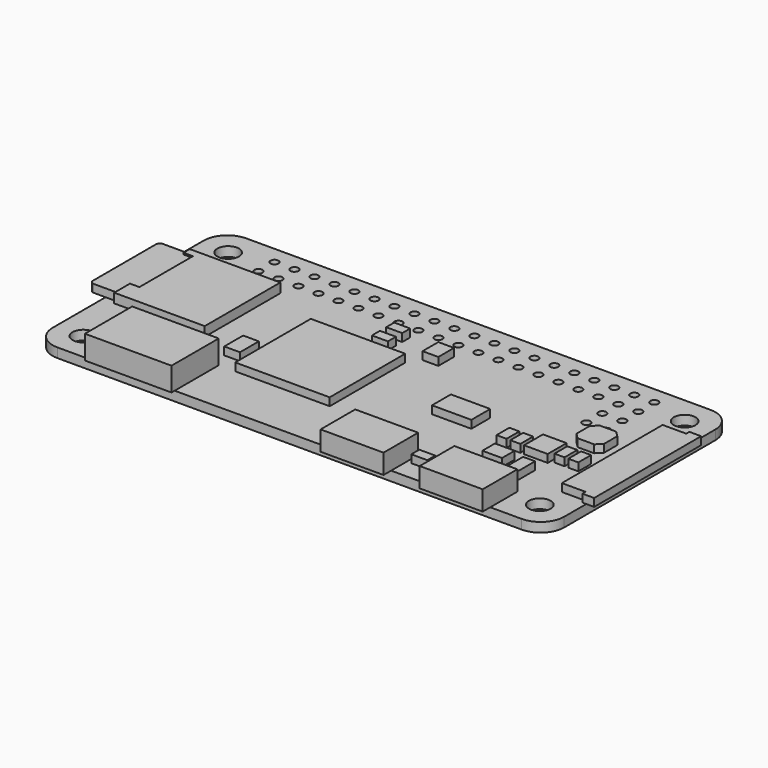
from build123d import *

# Parameters (mm, degrees)
F0_R      = 3
F0_R_2    = 0.508
F0_R_3    = 1.375
F3_DEPTH  = 1.2
F4_DEPTH  = 1
F1_W      = 3
F1_H      = 16
F5_DEPTH  = 1
F1_W_2    = 8
F1_H_2    = 5.5
F6_DEPTH  = 2.5
F1_W_3    = 11
F1_H_3    = 7.5
F7_DEPTH  = 3
F8_DEPTH  = 1.2
F1_W_4    = 1.2
F1_H_4    = 8.5
F9_DEPTH  = 1
F2_W      = 12
F2_H      = 12
F2_W_2    = 2.032
F2_H_2    = 1.27
F2_W_3    = 1.27
F2_H_3    = 2.032
F2_W_4    = 2
F2_H_4    = 3
F2_W_5    = 5
F2_W_6    = 3
F2_H_5    = 2.5
F2_W_7    = 2.5
F2_H_6    = 2
F2_W_8    = 1.524
F2_H_7    = 3.048
F10_DEPTH = 1


with BuildPart() as f3:
    # F0 (on Top) → F3 (new body)
    with BuildSketch(Plane.XY):
        with BuildLine():
            ThreePointArc((32.5, 12), (31.62132, 14.12132), (29.5, 15))
            Line((29.5, 15), (-29.5, 15))
            ThreePointArc((-29.5, 15), (-31.62132, 14.12132), (-32.5, 12))
            Line((-32.5, 12), (-32.5, -12))
            ThreePointArc((-32.5, -12), (-31.62132, -14.12132), (-29.5, -15))
            Line((-29.5, -15), (29.5, -15))
            ThreePointArc((29.5, -15), (31.62132, -14.12132), (32.5, -12))
            Line((32.5, -12), (32.5, 12))
        make_face()
        with Locations((-29, -11.5)):
            Circle(F0_R, mode=Mode.SUBTRACT)
        with Locations((29, -11.5)):
            Circle(F0_R, mode=Mode.SUBTRACT)
        with Locations((-24.13, 10.23)):
            Circle(F0_R_2, mode=Mode.SUBTRACT)
        with Locations((-21.59, 10.23)):
            Circle(F0_R_2, mode=Mode.SUBTRACT)
        with Locations((-19.05, 10.23)):
            Circle(F0_R_2, mode=Mode.SUBTRACT)
        with Locations((-16.51, 10.23)):
            Circle(F0_R_2, mode=Mode.SUBTRACT)
        with Locations((-29, 11.5)):
            Circle(F0_R, mode=Mode.SUBTRACT)
        with Locations((-24.13, 12.77)):
            Circle(F0_R_2, mode=Mode.SUBTRACT)
        with Locations((-21.59, 12.77)):
            Circle(F0_R_2, mode=Mode.SUBTRACT)
        with Locations((-19.05, 12.77)):
            Circle(F0_R_2, mode=Mode.SUBTRACT)
        with Locations((-16.51, 12.77)):
            Circle(F0_R_2, mode=Mode.SUBTRACT)
        with Locations((-13.97, 10.23)):
            Circle(F0_R_2, mode=Mode.SUBTRACT)
        with Locations((-11.43, 10.23)):
            Circle(F0_R_2, mode=Mode.SUBTRACT)
        with Locations((-8.89, 10.23)):
            Circle(F0_R_2, mode=Mode.SUBTRACT)
        with Locations((-6.35, 10.23)):
            Circle(F0_R_2, mode=Mode.SUBTRACT)
        with Locations((-3.81, 10.23)):
            Circle(F0_R_2, mode=Mode.SUBTRACT)
        with Locations((-1.27, 10.23)):
            Circle(F0_R_2, mode=Mode.SUBTRACT)
        with Locations((-13.97, 12.77)):
            Circle(F0_R_2, mode=Mode.SUBTRACT)
        with Locations((-11.43, 12.77)):
            Circle(F0_R_2, mode=Mode.SUBTRACT)
        with Locations((-8.89, 12.77)):
            Circle(F0_R_2, mode=Mode.SUBTRACT)
        with Locations((-6.35, 12.77)):
            Circle(F0_R_2, mode=Mode.SUBTRACT)
        with Locations((-3.81, 12.77)):
            Circle(F0_R_2, mode=Mode.SUBTRACT)
        with Locations((-1.27, 12.77)):
            Circle(F0_R_2, mode=Mode.SUBTRACT)
        with Locations((21.59, 5.15)):
            Circle(F0_R_2, mode=Mode.SUBTRACT)
        with Locations((24.13, 5.15)):
            Circle(F0_R_2, mode=Mode.SUBTRACT)
        with Locations((1.27, 10.23)):
            Circle(F0_R_2, mode=Mode.SUBTRACT)
        with Locations((3.81, 10.23)):
            Circle(F0_R_2, mode=Mode.SUBTRACT)
        with Locations((6.35, 10.23)):
            Circle(F0_R_2, mode=Mode.SUBTRACT)
        with Locations((8.89, 10.23)):
            Circle(F0_R_2, mode=Mode.SUBTRACT)
        with Locations((11.43, 10.23)):
            Circle(F0_R_2, mode=Mode.SUBTRACT)
        with Locations((13.97, 10.23)):
            Circle(F0_R_2, mode=Mode.SUBTRACT)
        with Locations((1.27, 12.77)):
            Circle(F0_R_2, mode=Mode.SUBTRACT)
        with Locations((3.81, 12.77)):
            Circle(F0_R_2, mode=Mode.SUBTRACT)
        with Locations((6.35, 12.77)):
            Circle(F0_R_2, mode=Mode.SUBTRACT)
        with Locations((8.89, 12.77)):
            Circle(F0_R_2, mode=Mode.SUBTRACT)
        with Locations((11.43, 12.77)):
            Circle(F0_R_2, mode=Mode.SUBTRACT)
        with Locations((13.97, 12.77)):
            Circle(F0_R_2, mode=Mode.SUBTRACT)
        with Locations((21.59, 7.69)):
            Circle(F0_R_2, mode=Mode.SUBTRACT)
        with Locations((24.13, 7.69)):
            Circle(F0_R_2, mode=Mode.SUBTRACT)
        with Locations((16.51, 10.23)):
            Circle(F0_R_2, mode=Mode.SUBTRACT)
        with Locations((19.05, 10.23)):
            Circle(F0_R_2, mode=Mode.SUBTRACT)
        with Locations((21.59, 10.23)):
            Circle(F0_R_2, mode=Mode.SUBTRACT)
        with Locations((24.13, 10.23)):
            Circle(F0_R_2, mode=Mode.SUBTRACT)
        with Locations((16.51, 12.77)):
            Circle(F0_R_2, mode=Mode.SUBTRACT)
        with Locations((19.05, 12.77)):
            Circle(F0_R_2, mode=Mode.SUBTRACT)
        with Locations((21.59, 12.77)):
            Circle(F0_R_2, mode=Mode.SUBTRACT)
        with Locations((24.13, 12.77)):
            Circle(F0_R_2, mode=Mode.SUBTRACT)
        with Locations((29, 11.5)):
            Circle(F0_R, mode=Mode.SUBTRACT)
        with Locations((-29, -11.5)):
            Circle(F0_R)
        with Locations((-29, -11.5)):
            Circle(F0_R_3, mode=Mode.SUBTRACT)
        with Locations((-29, 11.5)):
            Circle(F0_R)
        with Locations((-29, 11.5)):
            Circle(F0_R_3, mode=Mode.SUBTRACT)
        with Locations((29, 11.5)):
            Circle(F0_R)
        with Locations((29, 11.5)):
            Circle(F0_R_3, mode=Mode.SUBTRACT)
        with Locations((29, -11.5)):
            Circle(F0_R)
        with Locations((29, -11.5)):
            Circle(F0_R_3, mode=Mode.SUBTRACT)
    extrude(amount=-F3_DEPTH)

    # F1 (on Top) → F4 (join)
    with BuildSketch(Plane.XY):
        Polygon((32, -8.5), (33.5, -8.5), (33.5, 8.5), (32, 8.5), (32, 8), (32, -8), align=None)
    extrude(amount=F4_DEPTH)

    # F1 (on Top) → F5 (join)
    with BuildSketch(Plane.XY):
        with Locations((30.5, 0)):
            Rectangle(F1_W, F1_H)
    extrude(amount=F5_DEPTH)

    # F1 (on Top) → F6 (join)
    with BuildSketch(Plane.XY):
        with Locations((21.5, -13.45)):
            Rectangle(F1_W_2, F1_H_2)
        with Locations((8.9, -13.45)):
            Rectangle(F1_W_2, F1_H_2)
    extrude(amount=F6_DEPTH)

    # F1 (on Top) → F7 (join)
    with BuildSketch(Plane.XY):
        with Locations((-20.1, -11.75)):
            Rectangle(F1_W_3, F1_H_3)
    extrude(amount=F7_DEPTH)

    # F1 (on Top) → F8 (join)
    with BuildSketch(Plane.XY):
        Polygon((-19.5, -4.1), (-19.5, 7.9), (-31, 7.9), (-31, 7.4), (-31, 6.9), (-29.8, 6.9), (-29.8, -1.6), (-31, -1.6), (-31, -3.6), (-31, -4.1), align=None)
    extrude(amount=F8_DEPTH)

    # F1 (on Top) → F9 (join)
    with BuildSketch(Plane.XY):
        with Locations((-30.4, 2.65)):
            Rectangle(F1_W_4, F1_H_4)
        with BuildLine():
            Line((-31, 6.9), (-31, 7.4))
            Line((-31, 7.4), (-34, 7.4))
            ThreePointArc((-34, 7.4), (-34.353553, 7.253553), (-34.5, 6.9))
            Line((-34.5, 6.9), (-34.5, -3.1))
            ThreePointArc((-34.5, -3.1), (-34.353553, -3.453553), (-34, -3.6))
            Line((-34, -3.6), (-31, -3.6))
            Line((-31, -3.6), (-31, -1.6))
            Line((-31, -1.6), (-31, 6.9))
        make_face()
    extrude(amount=F9_DEPTH)

    # F2 (on Top) → F10 (join)
    with BuildSketch(Plane.XY):
        with Locations((-6.5, -2)):
            Rectangle(F2_W, F2_H)
        with Locations((-4.516, 7.905)):
            Rectangle(F2_W_2, F2_H_2)
        with Locations((-4.516, 5.635)):
            Rectangle(F2_W_2, F2_H_2)
        with Locations((14.484, -11.865)):
            Rectangle(F2_W_2, F2_H_2)
        with Locations((18.135, -2.984)):
            Rectangle(F2_W_3, F2_H_3)
        with Locations((19.885, -2.984)):
            Rectangle(F2_W_3, F2_H_3)
        with Locations((25.115, -2.5)):
            Rectangle(F2_W_3, F2_H_3)
        with Locations((26.865, -2.5)):
            Rectangle(F2_W_3, F2_H_3)
        with Locations((-14.5, -4.5)):
            Rectangle(F2_W_4, F2_H_4)
        with Locations((11, -1.5)):
            Rectangle(F2_W_5, F2_H_4)
        with Locations((22.5, -2.5)):
            Rectangle(F2_W_6, F2_H_4)
        with Locations((1.5, 6.75)):
            Rectangle(F2_W_4, F2_H_5)
        with Locations((19.75, -6.5)):
            Rectangle(F2_W_7, F2_H_6)
        with Locations((23.238, -7.524)):
            Rectangle(F2_W_8, F2_H_7)
        Polygon((24.2, 4), (23.5, 3.3), (23.5, 1.2), (24.2, 0.5), (26.3, 0.5), (27, 1.2), (27, 3.3), (26.3, 4), align=None)
    extrude(amount=F10_DEPTH)


solid = f3.part
